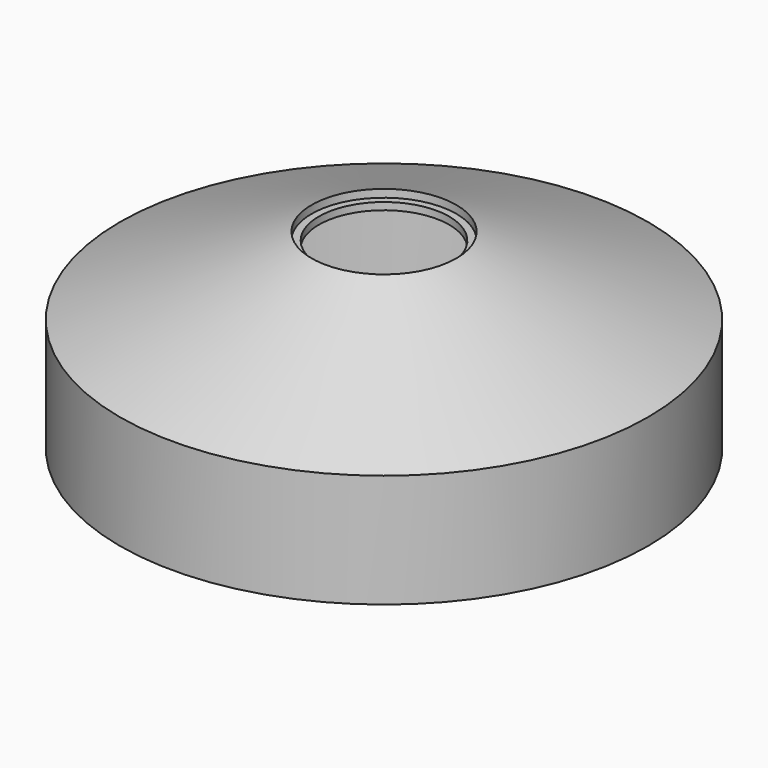
from build123d import *

# Parameters (mm, degrees)
F0_W = 1
F0_H = 1


with BuildPart() as f1:
    # F0 (on Front) → F1 (revolve)
    with BuildSketch(Plane.XZ):
        Polygon((35.5, 40), (35.5, 25), (36.5, 25), (36.5, 40.674691), (10, 51.373644), (10, 50.295219), (10.752199, 49.991531), align=None)
        Polygon((10, 49.295219), (10.752199, 49.991531), (10, 50.295219), align=None)
        with Locations((9.5, 49.795219)):
            Rectangle(F0_W, F0_H)
    revolve(axis=Axis((0, 0, 48.560351), (0, 0, 1)))


solid = f1.part
